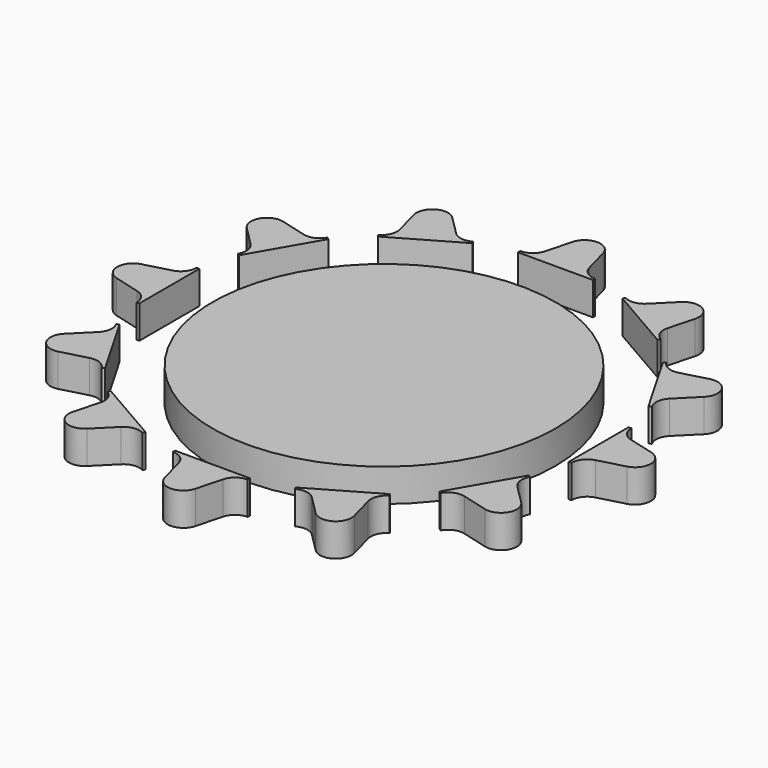
from build123d import *

# Parameters (mm, degrees)
F1_DEPTH = 10
F3_COUNT = 12
F4_R     = 52.0883927181
F5_DEPTH = 10


with BuildPart() as f1:
    # F0 (on Top) → F1 (new body)
    with BuildSketch(Plane.XY):
        with BuildLine():
            Line((-6.7163301411, -69.6003990718), (-4.5999996364, -77.498652041))
            ThreePointArc((-4.5999996364, -77.498652041), (0.0364443298, -81.0563206245), (4.672888296, -77.498652041))
            Line((4.672888296, -77.498652041), (6.7892188007, -69.6003990718))
            ThreePointArc((6.7892188007, -69.6003990718), (8.5036079076, -67.0346344549), (11.4256627668, -66.0427304883))
            Line((11.4256627668, -66.0427304883), (11.4256627668, -65.203808248))
            Line((11.4256627668, -65.203808248), (-11.3286040723, -65.203808248))
            Line((-11.3286040723, -65.203808248), (-11.3527741073, -66.0427304883))
            ThreePointArc((-11.3527741073, -66.0427304883), (-8.4307192481, -67.0346344549), (-6.7163301411, -69.6003990718))
        make_face()
    extrude(amount=F1_DEPTH)


with BuildPart() as f3_1:
    # F3: instance of F1
    add(f1.part.rotate(Axis((0, 0, 0), (0, 0, 1)), 1 * 360 / F3_COUNT))


with BuildPart() as f3_2:
    # F3: instance of F1
    add(f1.part.rotate(Axis((0, 0, 0), (0, 0, 1)), 2 * 360 / F3_COUNT))


with BuildPart() as f3_3:
    # F3: instance of F1
    add(f1.part.rotate(Axis((0, 0, 0), (0, 0, 1)), 3 * 360 / F3_COUNT))


with BuildPart() as f3_4:
    # F3: instance of F1
    add(f1.part.rotate(Axis((0, 0, 0), (0, 0, 1)), 4 * 360 / F3_COUNT))


with BuildPart() as f3_5:
    # F3: instance of F1
    add(f1.part.rotate(Axis((0, 0, 0), (0, 0, 1)), 5 * 360 / F3_COUNT))


with BuildPart() as f3_6:
    # F3: instance of F1
    add(f1.part.rotate(Axis((0, 0, 0), (0, 0, 1)), 6 * 360 / F3_COUNT))


with BuildPart() as f3_7:
    # F3: instance of F1
    add(f1.part.rotate(Axis((0, 0, 0), (0, 0, 1)), 7 * 360 / F3_COUNT))


with BuildPart() as f3_8:
    # F3: instance of F1
    add(f1.part.rotate(Axis((0, 0, 0), (0, 0, 1)), 8 * 360 / F3_COUNT))


with BuildPart() as f3_9:
    # F3: instance of F1
    add(f1.part.rotate(Axis((0, 0, 0), (0, 0, 1)), 9 * 360 / F3_COUNT))


with BuildPart() as f3_10:
    # F3: instance of F1
    add(f1.part.rotate(Axis((0, 0, 0), (0, 0, 1)), 10 * 360 / F3_COUNT))


with BuildPart() as f3_11:
    # F3: instance of F1
    add(f1.part.rotate(Axis((0, 0, 0), (0, 0, 1)), 11 * 360 / F3_COUNT))


with BuildPart() as f5:
    # F4 (on Top) → F5 (new body)
    with BuildSketch(Plane.XY):
        Circle(F4_R)
    extrude(amount=F5_DEPTH)


solid = Compound([f1.part, f3_1.part, f3_2.part, f3_3.part, f3_4.part, f3_5.part, f3_6.part, f3_7.part, f3_8.part, f3_9.part, f3_10.part, f3_11.part, f5.part])
